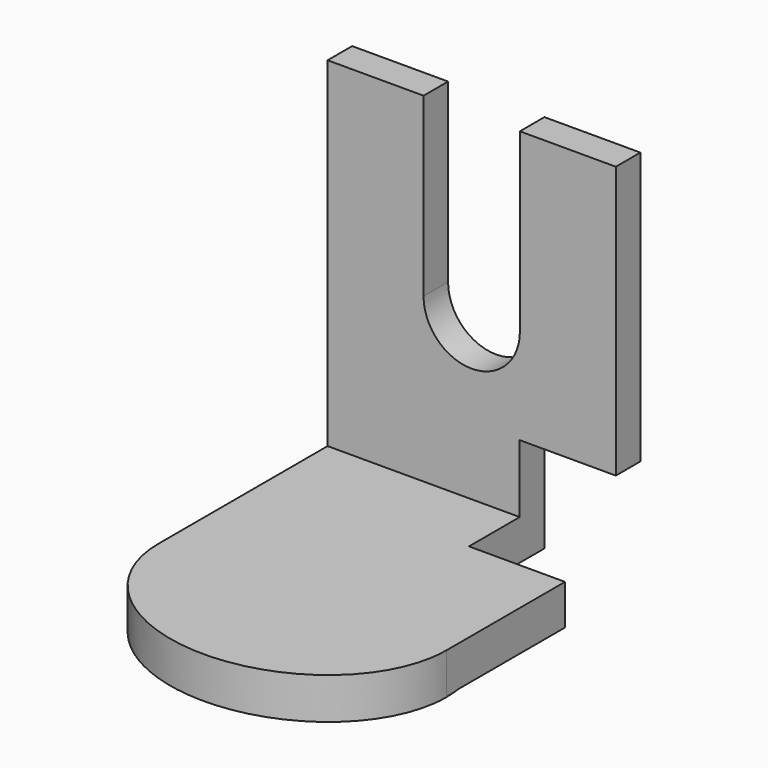
from build123d import *

# Parameters (mm, degrees)
F1_DEPTH = 38.1
F2_W     = 25.4778154194
F2_H     = 46.6601713864
F3_DEPTH = 25.4
F4_R     = 12.7389077097
F5_DEPTH = 25.4
F7_DEPTH = 10.922
F8_W     = 31.6123468801
F8_H     = 31.3325910829
F9_DEPTH = 25.4


with BuildPart() as f1:
    # F0 (on Right) → F1 (new body, symmetric)
    with BuildSketch(Plane.YZ):
        Polygon((22.1054865791, -30.7730790228), (22.1054865791, 69.6590542793), (13.9877619222, 69.6590542793), (13.9877619222, -20.1423782855), (-41.9632866979, -20.1423782855), (-41.9632866979, -30.7730790228), align=None)
    extrude(amount=F1_DEPTH, both=True)

    # F2 (on face) → F3 (cut)
    with BuildSketch(Plane.XZ.offset(-13.9877619222)):
        with Locations((0, 46.3289685861)):
            Rectangle(F2_W, F2_H)
    extrude(amount=-F3_DEPTH, mode=Mode.SUBTRACT)

    # F4 (on face) → F5 (cut)
    with BuildSketch(Plane.XZ.offset(-13.9877619222)):
        with Locations((0, 22.9988828929)):
            Circle(F4_R)
    extrude(amount=-F5_DEPTH, mode=Mode.SUBTRACT)

    # F6 (on face) → F7 (join)
    with BuildSketch(Plane.XY.offset(-20.1423782855)):
        with BuildLine():
            add(Edge.make_bspline(
                [(38.1, -41.9632866979), (38.1, 14.6527967771), (-19.05, -13.6552449604), (-76.2, -41.9632866979), (-19.05, -70.2713284353), (38.1, -98.5793701728), (38.1, -41.9632866979)],
                knots=[0, 0, 0, 2.0943951024, 2.0943951024, 4.1887902048, 4.1887902048, 6.2831853072, 6.2831853072, 6.2831853072], degree=2, weights=[1, 0.5, 1, 0.5, 1, 0.5, 1]))
        make_face()
    extrude(amount=-F7_DEPTH)

    # F8 (on face) → F9 (cut)
    with BuildSketch(Plane.YZ.offset(38.1)):
        with Locations((13.008619193, -17.9043367971)):
            Rectangle(F8_W, F8_H)
    extrude(amount=-F9_DEPTH, mode=Mode.SUBTRACT)


solid = f1.part
